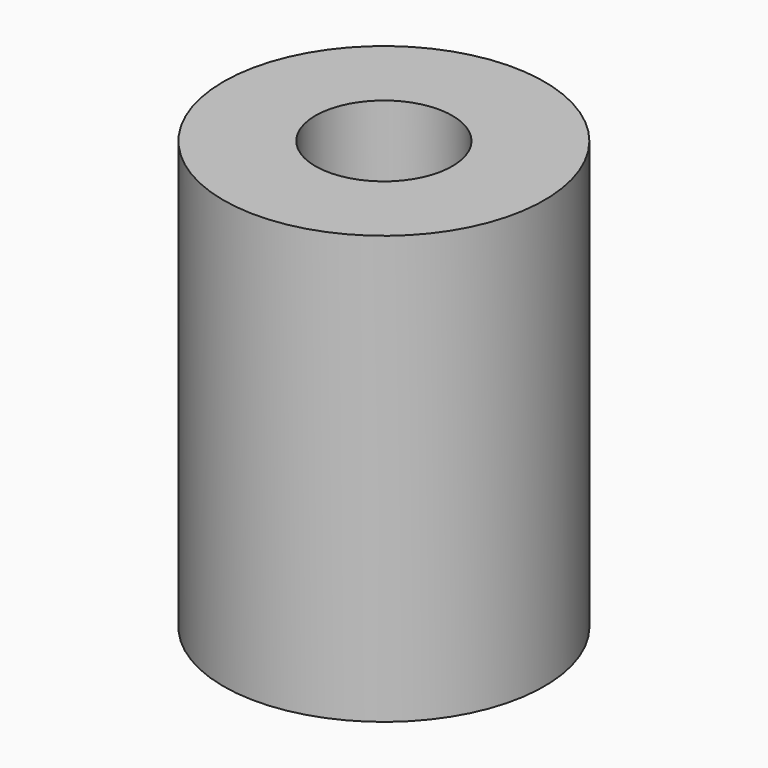
from build123d import *

# Parameters (mm, degrees)
SKETCH_R             = 9.375
PAD_DEPTH            = 25
SKETCH001_R          = 2
POCKET_DEPTH         = 12.5
SKETCH002_R          = 4
POCKET001_DEPTH      = 12.5
BODY_PLACEMENT_ANGLE = 180


with BuildPart() as part:
    # Sketch → Pad (new body)
    with BuildSketch(Plane.XY):
        Circle(SKETCH_R)
    extrude(amount=PAD_DEPTH)

    # Sketch001 (on Face3 of Pad) → Pocket (cut)
    with BuildSketch(Plane.XY.offset(25)):
        Circle(SKETCH001_R)
    extrude(amount=-POCKET_DEPTH, mode=Mode.SUBTRACT)

    # Sketch002 (on Face2 of Pocket) → Pocket001 (cut)
    with BuildSketch(Plane(origin=(0, 0, 0), x_dir=(1, 0, 0), z_dir=(0, 0, -1))):
        Circle(SKETCH002_R)
    extrude(amount=-POCKET001_DEPTH, mode=Mode.SUBTRACT)


with BuildPart() as part_1:
    # Body placement: moved
    add(part.part.moved(Location((0, 0, 72))).rotate(Axis((0, 0, 72), (0, 1, 0)), BODY_PLACEMENT_ANGLE))


solid = part_1.part
